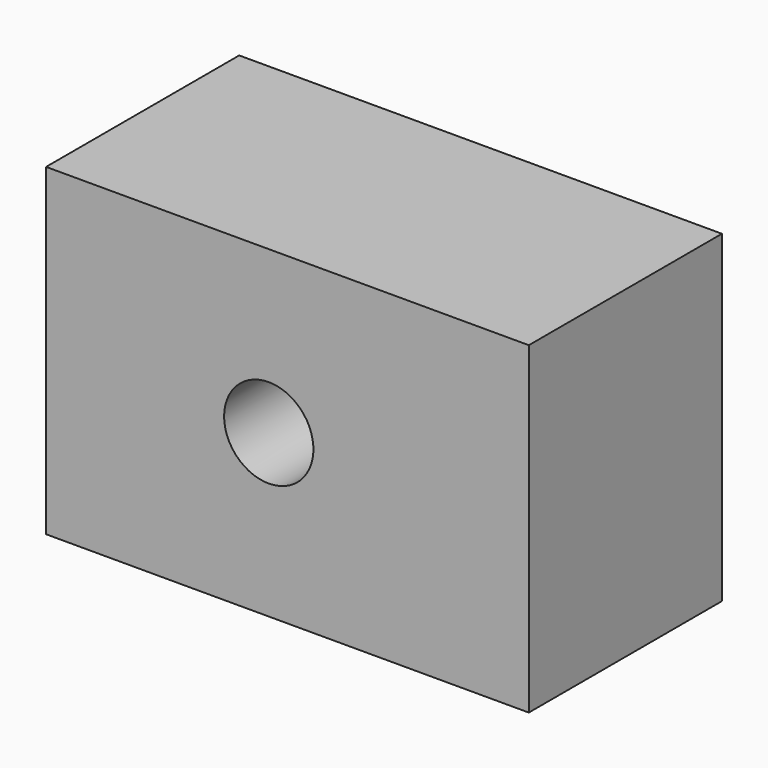
from build123d import *

# Parameters (mm, degrees)
PAD_DEPTH              = 13.4
CYLINDER_W             = 6.7
CYLINDER_H             = 298.45
CYLINDER_ANGLE         = 180
CYLINDER001_R          = 99.483333
CYLINDER001_DEPTH      = 32
BOX_W                  = 149.225
BOX_H                  = 30
BOX_DEPTH              = 21
BOX001_W               = 33
BOX001_H               = 149.225
BOX001_DEPTH           = 22
CYLINDER002_R          = 3.7
CYLINDER002_DEPTH      = 105
LINEARPATTERN_COUNT    = 3
LINEARPATTERN_PITCH    = 74.6125
CYLINDER003_R          = 1.85
CYLINDER003_DEPTH      = 100
LINEARPATTERN001_COUNT = 3
LINEARPATTERN001_PITCH = 74.6125
CYLINDER004_R          = 2.55
CYLINDER004_DEPTH      = 10
LINEARPATTERN002_COUNT = 3
LINEARPATTERN002_PITCH = 141.16875
BOX002_W               = 100
BOX002_H               = 1000
BOX002_DEPTH           = 100
BOX003_W               = 100
BOX003_H               = 100
BOX003_DEPTH           = 1000
BOX004_W               = 50
BOX004_H               = 100
BOX004_DEPTH           = 100
BOX005_W               = 500
BOX005_H               = 500
BOX005_DEPTH           = 500
BOX006_W               = 37
BOX006_H               = 26
BOX006_DEPTH           = 16


with BuildPart() as part:
    # Sketch → Pad (new body)
    with BuildSketch(Plane.XY):
        Polygon((0, 0), (298.45, 0), (0, 298.45), align=None)
    extrude(amount=PAD_DEPTH)

    # Cylinder → Cylinder (revolve, cut)
    with BuildSketch(Plane(origin=(0, 0, 6.7), x_dir=(0, 0, 1), z_dir=(-1, 0, 0))):
        with Locations((3.35, 149.225)):
            Rectangle(CYLINDER_W, CYLINDER_H)
    revolve(axis=Axis((0, 0, 6.7), (0, 1, 0)), revolution_arc=CYLINDER_ANGLE, mode=Mode.SUBTRACT)

    # Cylinder001 → Cylinder001 (cut)
    with BuildSketch(Plane(origin=(149.225, 149.225, -8), x_dir=(1, 0, 0), z_dir=(0, 0, 1))):
        Circle(CYLINDER001_R)
    extrude(amount=CYLINDER001_DEPTH, mode=Mode.SUBTRACT)

    # Box → Box (cut)
    with BuildSketch(Plane(origin=(149.225, 79.741667, 17), x_dir=(1, 0, 0), z_dir=(0, 0, -1))):
        with Locations((74.6125, 15)):
            Rectangle(BOX_W, BOX_H)
    extrude(amount=BOX_DEPTH, mode=Mode.SUBTRACT)

    # Box001 → Box001 (cut)
    with BuildSketch(Plane(origin=(49.741667, 303.579167, 17), x_dir=(1, 0, 0), z_dir=(0, 0, -1))):
        with Locations((16.5, 74.6125)):
            Rectangle(BOX001_W, BOX001_H)
    extrude(amount=BOX001_DEPTH, mode=Mode.SUBTRACT)

    # Cylinder002 → Cylinder002 (cut)
    with BuildSketch(Plane(origin=(74.6125, 5, 6.7), x_dir=(-1, 0, 0), z_dir=(0, 1, 0))):
        Circle(CYLINDER002_R)
    cylinder002 = extrude(amount=CYLINDER002_DEPTH, mode=Mode.SUBTRACT)

    # LinearPattern: Cylinder002 ×3
    with Locations(*[(i * LINEARPATTERN_PITCH, 0, 0) for i in range(1, LINEARPATTERN_COUNT)]):
        add(cylinder002, mode=Mode.SUBTRACT)

    # Cylinder003 → Cylinder003 (cut)
    with BuildSketch(Plane(origin=(74.6125, 0, 6.7), x_dir=(-1, 0, 0), z_dir=(0, 1, 0))):
        Circle(CYLINDER003_R)
    cylinder003 = extrude(amount=CYLINDER003_DEPTH, mode=Mode.SUBTRACT)

    # LinearPattern001: Cylinder003 ×3
    with Locations(*[(i * LINEARPATTERN001_PITCH, 0, 0) for i in range(1, LINEARPATTERN001_COUNT)]):
        add(cylinder003, mode=Mode.SUBTRACT)

    # Cylinder004 → Cylinder004 (cut)
    with BuildSketch(Plane(origin=(0, 8.05625, 5), x_dir=(1, 0, 0), z_dir=(0, 0, 1))):
        Circle(CYLINDER004_R)
    cylinder004 = extrude(amount=CYLINDER004_DEPTH, mode=Mode.SUBTRACT)

    # LinearPattern002: Cylinder004 ×3
    with Locations(*[(0, i * LINEARPATTERN002_PITCH, 0) for i in range(1, LINEARPATTERN002_COUNT)]):
        add(cylinder004, mode=Mode.SUBTRACT)

    # Box002 → Box002 (cut)
    with BuildSketch(Plane.XY):
        with Locations((50, 500)):
            Rectangle(BOX002_W, BOX002_H)
    extrude(amount=BOX002_DEPTH, mode=Mode.SUBTRACT)

    # Box003 → Box003 (cut)
    with BuildSketch(Plane.YZ.offset(160)):
        with Locations((50, 50)):
            Rectangle(BOX003_W, BOX003_H)
    extrude(amount=BOX003_DEPTH, mode=Mode.SUBTRACT)

    # Box004 → Box004 (cut)
    with BuildSketch(Plane(origin=(90, 78, -74), x_dir=(1, 0, 0), z_dir=(0, -1, 0))):
        with Locations((25, 50)):
            Rectangle(BOX004_W, BOX004_H)
    extrude(amount=BOX004_DEPTH, mode=Mode.SUBTRACT)

    # Box005 → Box005 (cut)
    with BuildSketch(Plane(origin=(0, 25, 0), x_dir=(0, 1, 0), z_dir=(1, 0, 0))):
        with Locations((250, 250)):
            Rectangle(BOX005_W, BOX005_H)
    extrude(amount=BOX005_DEPTH, mode=Mode.SUBTRACT)

    # Box006 → Box006 (cut)
    with BuildSketch(Plane(origin=(136, 26, -5), x_dir=(1, 0, 0), z_dir=(0, -1, 0))):
        with Locations((18.5, 13)):
            Rectangle(BOX006_W, BOX006_H)
    extrude(amount=BOX006_DEPTH, mode=Mode.SUBTRACT)


solid = part.part
